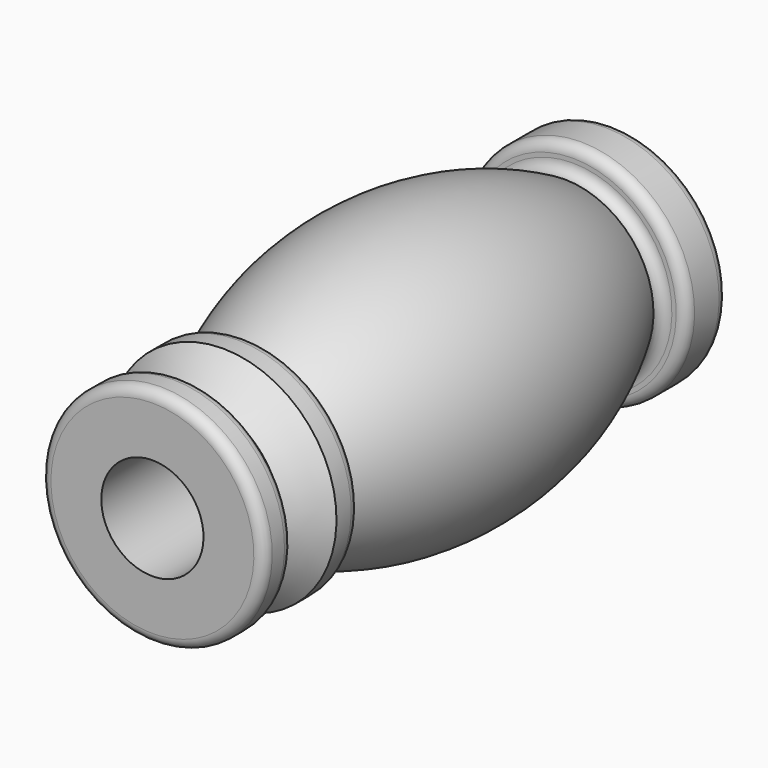
from build123d import *


with BuildPart() as f1:
    # F0 (on Right) → F1 (revolve)
    with BuildSketch(Plane.YZ):
        with BuildLine():
            Line((-45.974173, 19.856825), (-45.974173, 10))
            Line((-45.974173, 10), (7.025827, 10))
            Line((7.025827, 10), (7.025827, 0))
            Line((7.025827, 0), (66.839572, 0))
            Line((66.839572, 0), (66.839572, 20.253024))
            ThreePointArc((66.839572, 20.253024), (66.253786, 21.667238), (64.839572, 22.253024))
            Line((64.839572, 22.253024), (58.839572, 22.253024))
            ThreePointArc((58.839572, 22.253024), (57.425359, 21.667238), (56.839572, 20.253024))
            Line((56.839572, 20.253024), (56.839572, 19.411995))
            ThreePointArc((56.839572, 19.411995), (56.253786, 17.997781), (54.839572, 17.411995))
            ThreePointArc((54.839572, 17.411995), (16.839572, 27.49945), (-21.160428, 17.411995))
            ThreePointArc((-21.160428, 17.411995), (-22.574641, 17.997781), (-23.160428, 19.411995))
            Line((-23.160428, 19.411995), (-23.160428, 20.253024))
            ThreePointArc((-23.160428, 20.253024), (-23.746214, 21.667238), (-25.160428, 22.253024))
            Line((-25.160428, 22.253024), (-28.746232, 22.253024))
            Line((-28.746232, 22.253024), (-34.70733, 16.291926))
            Line((-34.70733, 16.291926), (-36.974173, 16.291926))
            ThreePointArc((-36.974173, 16.291926), (-38.388387, 16.877712), (-38.974173, 18.291926))
            Line((-38.974173, 18.291926), (-38.974173, 19.856825))
            ThreePointArc((-38.974173, 19.856825), (-39.55996, 21.271038), (-40.974173, 21.856825))
            Line((-40.974173, 21.856825), (-43.974173, 21.856825))
            ThreePointArc((-43.974173, 21.856825), (-45.388387, 21.271038), (-45.974173, 19.856825))
        make_face()
    revolve(axis=Axis((0, 34.685813, 0), (0, 1, 0)))


solid = f1.part
